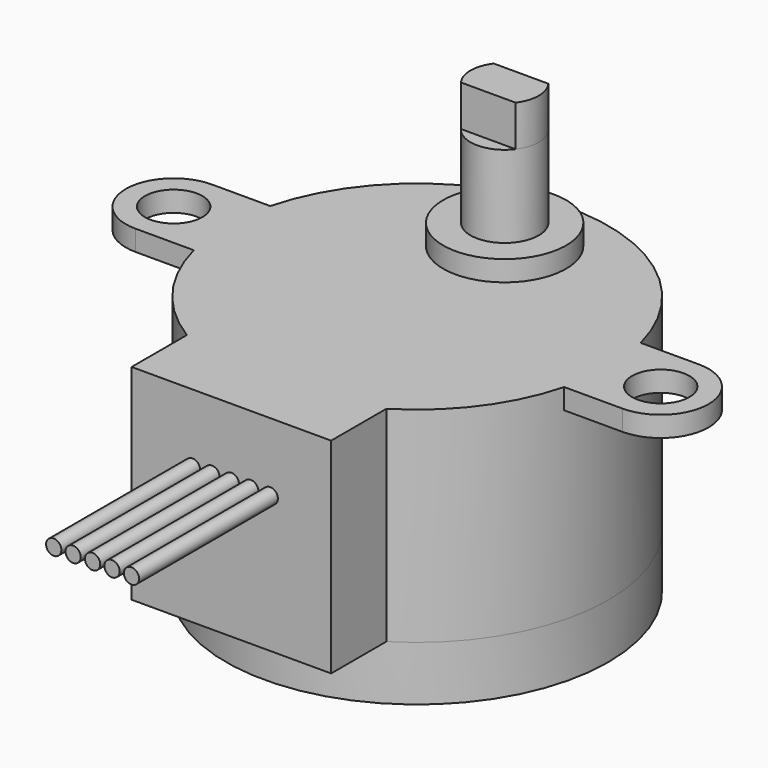
from build123d import *

# Parameters (mm, degrees)
F1_DEPTH  = 15
F2_R      = 14
F3_DEPTH  = 4
F4_R      = 2.1
F5_DEPTH  = 1.5
F7_R      = 0.5588
F8_DEPTH  = 12.7
F13_DEPTH = 3


with BuildPart() as f1:
    # F0 (on Top) → F1 (new body)
    with BuildSketch(Plane.XY):
        with BuildLine():
            Line((7.3, -25), (7.3, -19.946129))
            ThreePointArc((7.3, -19.946129), (0, 6), (-7.3, -19.946129))
            Line((-7.3, -19.946129), (-7.3, -25))
            Line((-7.3, -25), (7.3, -25))
        make_face()
    extrude(amount=-F1_DEPTH)

    # F2 (on face) → F3 (join)
    with BuildSketch(Plane(origin=(0, 0, -15), x_dir=(1, 0, 0), z_dir=(0, 0, -1))):
        with Locations((0, 8)):
            Circle(F2_R)
    extrude(amount=F3_DEPTH)

    # F4 (on Top) → F5 (join)
    with BuildSketch(Plane.XY):
        with BuildLine():
            ThreePointArc((-17.823718, -4.5), (-21.323718, -8), (-17.823718, -11.5))
            Line((-17.823718, -11.5), (17.823718, -11.5))
            ThreePointArc((17.823718, -11.5), (21.323718, -8), (17.823718, -4.5))
            Line((17.823718, -4.5), (-17.823718, -4.5))
        make_face()
        with Locations((-17.823718, -8)):
            Circle(F4_R, mode=Mode.SUBTRACT)
        with Locations((17.823718, -8)):
            Circle(F4_R, mode=Mode.SUBTRACT)
    extrude(amount=-F5_DEPTH)

    # F7 (on face) → F8 (join)
    with BuildSketch(Plane.XZ.offset(25)):
        with Locations((-2.8448, -5)):
            Circle(F7_R)
        with Locations((-1.4224, -5)):
            Circle(F7_R)
        with Locations((0, -5)):
            Circle(F7_R)
        with Locations((1.4224, -5)):
            Circle(F7_R)
        with Locations((2.8448, -5)):
            Circle(F7_R)
    extrude(amount=F8_DEPTH)

    # F9 (on Right) → F10 (revolve)
    with BuildSketch(Plane.YZ):
        Polygon((0, 7.5), (0, 0), (4.5, 0), (4.5, 1.5), (2.5, 1.5), (2.5, 7.5), align=None)
    revolve(axis=Axis((0, 0, 3.75), (0, 0, 1)))

    # F12 (on offset) → F13 (join, through all)
    with BuildSketch(Plane.XY.offset(10.5)):
        with BuildLine():
            Line((2, 1.5), (-2, 1.5))
            ThreePointArc((-2, 1.5), (-2.5, 0), (-2, -1.5))
            Line((-2, -1.5), (2, -1.5))
            ThreePointArc((2, -1.5), (2.5, 0), (2, 1.5))
        make_face()
    extrude(amount=-F13_DEPTH)


solid = f1.part
